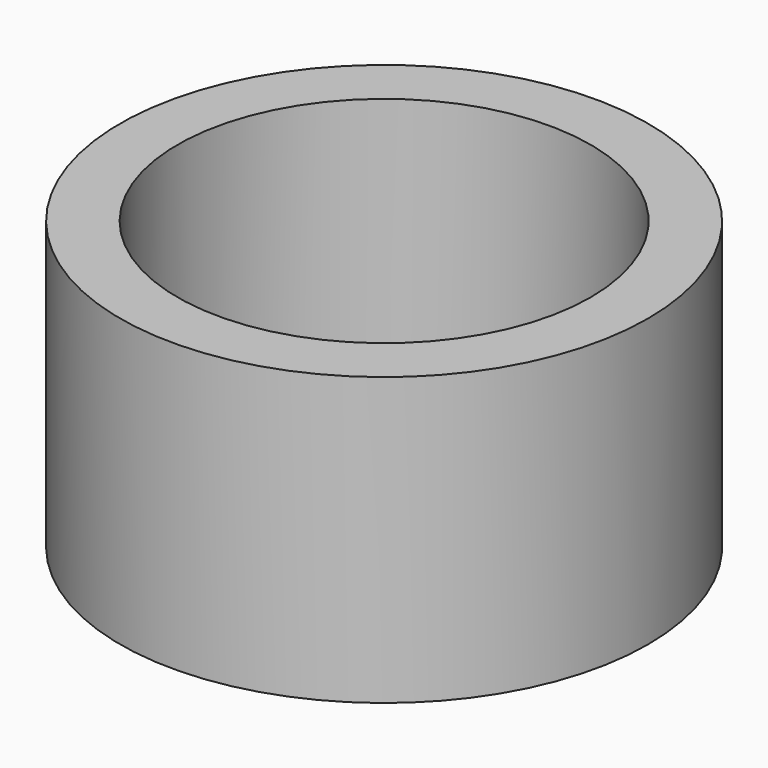
from build123d import *

# Parameters (mm, degrees)
SKETCH_R   = 23
SKETCH_R_2 = 18
PAD_DEPTH  = 25


with BuildPart() as part:
    # Sketch → Pad (new body)
    with BuildSketch(Plane.XY):
        Circle(SKETCH_R)
        Circle(SKETCH_R_2, mode=Mode.SUBTRACT)
    extrude(amount=PAD_DEPTH)


solid = part.part
